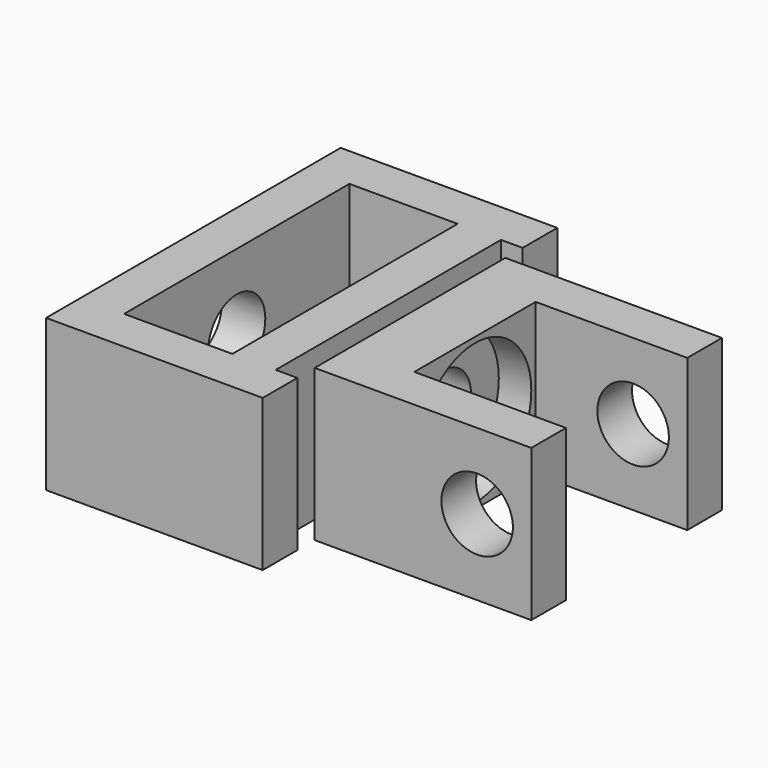
from build123d import *

# Parameters (mm, degrees)
F1_DEPTH       = 7
F3_D           = 3.3
F5_D           = 3.3
F5_CBORE_D     = 6.5
F5_CBORE_DEPTH = 1.5
F7_DEPTH       = 7
F8_W           = 5
F8_H           = 13
F9_DEPTH       = 7.001
F11_D          = 3.3


with BuildPart() as f1:
    # F0 (on Top) → F1 (new body)
    with BuildSketch(Plane.XY):
        Polygon((10, 0), (0, 0), (0, -11), (10, -11), (10, -9), (3, -9), (3, -2), (10, -2), align=None)
    extrude(amount=F1_DEPTH)

    # F3 (through all)
    with Locations(Plane.XZ.offset(11)):
        with Locations((7.5, 3.5)):
            Hole(F3_D / 2)

    # F5 (through all)
    with Locations(Plane.YZ.offset(3)):
        with Locations((-5.5, 3.5)):
            CounterBoreHole(F5_D / 2, F5_CBORE_D / 2, F5_CBORE_DEPTH)


with BuildPart() as f7:
    # F6 (on Top) → F7 (new body)
    with BuildSketch(Plane.XY):
        Polygon((-1, 1), (0, 1), (0, 3), (-10, 3), (-10, -14), (0, -14), (0, -12), (-1, -12), align=None)
    extrude(amount=F7_DEPTH)

    # F8 (on face) → F9 (cut, through all)
    with BuildSketch(Plane.XY.offset(7)):
        with Locations((-5.5, -5.5)):
            Rectangle(F8_W, F8_H)
    extrude(amount=-F9_DEPTH, mode=Mode.SUBTRACT)

    # F11 (through all)
    with Locations(Plane(origin=(-10, 0, 0), x_dir=(0, -1, 0), z_dir=(-1, 0, 0))):
        with Locations((5.5, 3.5)):
            Hole(F11_D / 2)


solid = Compound([f1.part, f7.part])
